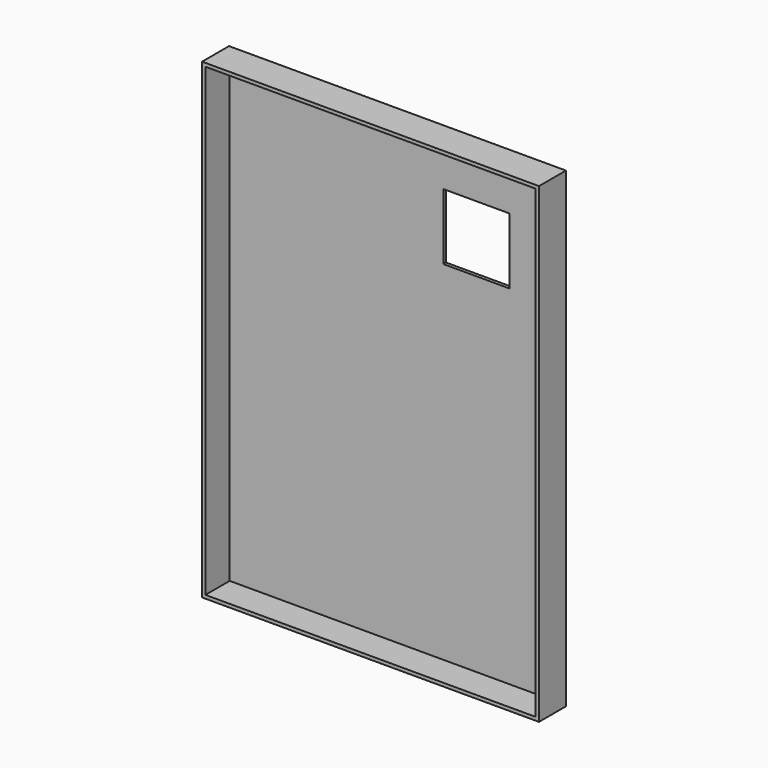
from build123d import *

# Parameters (mm, degrees)
F0_W     = 250
F0_H     = 350
F1_DEPTH = 25
F2_T     = -2.5
F3_W     = 49
F3_H     = 49
F4_DEPTH = 25


with BuildPart() as f1:
    # F0 (on Front) → F1 (new body)
    with BuildSketch(Plane.XZ):
        with Locations((69.741823, 120.105962)):
            Rectangle(F0_W, F0_H)
    extrude(amount=F1_DEPTH)

    # F2
    f2_openings = [f1.faces().sort_by_distance(p)[0] for p in [
        (69.741823, -25, 120.105962),
    ]]
    offset(amount=F2_T, openings=f2_openings)

    # F3 (on face) → F4 (cut)
    with BuildSketch(Plane.XZ):
        with Locations((130.241823, 230.605962)):
            Rectangle(F3_W, F3_H)
    extrude(amount=F4_DEPTH, mode=Mode.SUBTRACT)


solid = f1.part
